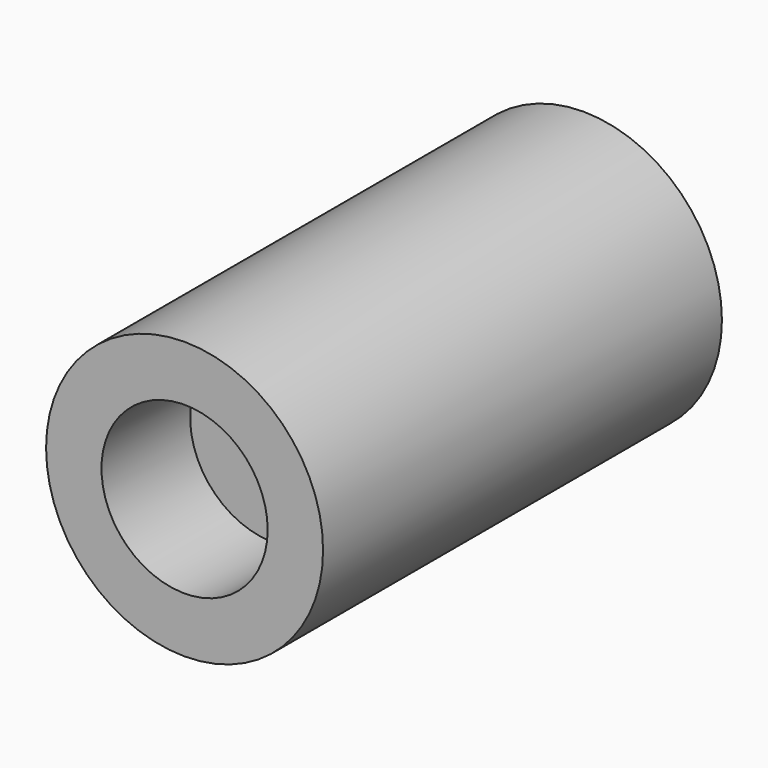
from build123d import *

# Parameters (mm, degrees)
F0_R     = 50
F1_DEPTH = 140
F2_R     = 50
F2_R_2   = 30
F3_DEPTH = 40
F4_R     = 10
F5_DEPTH = 80


with BuildPart() as f1:
    # F0 (on Front) → F1 (new body)
    with BuildSketch(Plane.XZ):
        Circle(F0_R)
        Circle(F0_R)
    extrude(amount=F1_DEPTH)

    # F2 (on face) → F3 (join)
    with BuildSketch(Plane.XZ.offset(140)):
        Circle(F2_R)
        Circle(F2_R_2, mode=Mode.SUBTRACT)
    extrude(amount=F3_DEPTH)

    # F4 (on face) → F5 (cut)
    with BuildSketch(Plane.XZ.offset(140)):
        Circle(F4_R)
    extrude(amount=-F5_DEPTH, mode=Mode.SUBTRACT)


solid = f1.part
